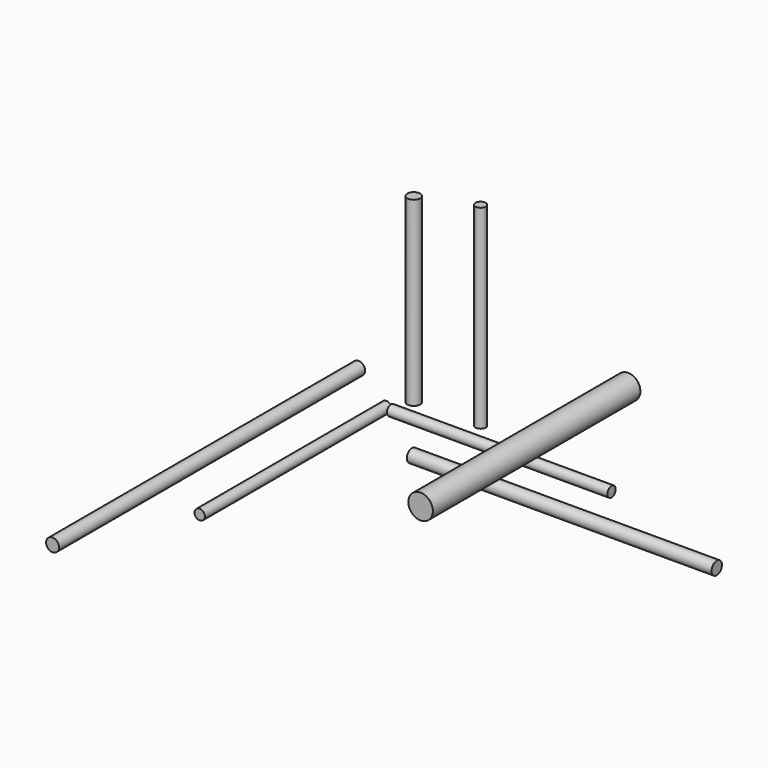
from build123d import *

# Parameters (mm, degrees)
F0_R      = 5
F1_DEPTH  = 235
F2_R      = 5
F3_DEPTH  = 295
F4_R      = 5
F5_DEPTH  = 140
F7_R      = 9.475
F8_DEPTH  = 200
F0_R_2    = 4
F10_DEPTH = 170
F2_R_2    = 4
F11_DEPTH = 180
F4_R_2    = 4
F12_DEPTH = 150


with BuildPart() as f1:
    # F0 (on Right) → F1 (new body)
    with BuildSketch(Plane.YZ):
        Circle(F0_R)
    extrude(amount=F1_DEPTH)


with BuildPart() as f3:
    # F2 (on Front) → F3 (new body)
    with BuildSketch(Plane.XZ):
        with Locations((-41.132472, 45.786221)):
            Circle(F2_R)
    extrude(amount=F3_DEPTH)


with BuildPart() as f5:
    # F4 (on Top) → F5 (new body)
    with BuildSketch(Plane.XY):
        with Locations((-42.50652, 54.827251)):
            Circle(F4_R)
    extrude(amount=F5_DEPTH)


with BuildPart() as f6_1:
    # F6: copy of F1
    add(f1.part)


with BuildPart() as f8:
    # F7 (on Front) → F8 (new body)
    with BuildSketch(Plane.XZ):
        with Locations((166.659728, 100.7661)):
            Circle(F7_R)
    extrude(amount=F8_DEPTH)


with BuildPart() as f10:
    # F0 (on Right) → F10 (new body)
    with BuildSketch(Plane.YZ):
        with Locations((-20.140991, 38.843349)):
            Circle(F0_R_2)
    extrude(amount=F10_DEPTH)


with BuildPart() as f11:
    # F2 (on Front) → F11 (new body)
    with BuildSketch(Plane.XZ):
        with Locations((-19.672709, 26.604321)):
            Circle(F2_R_2)
    extrude(amount=F11_DEPTH)


with BuildPart() as f12:
    # F4 (on Top) → F12 (new body)
    with BuildSketch(Plane.XY):
        with Locations((8.101324, 56.03699)):
            Circle(F4_R_2)
    extrude(amount=F12_DEPTH)


solid = Compound([f1.part, f3.part, f5.part, f8.part, f10.part, f11.part, f12.part])
